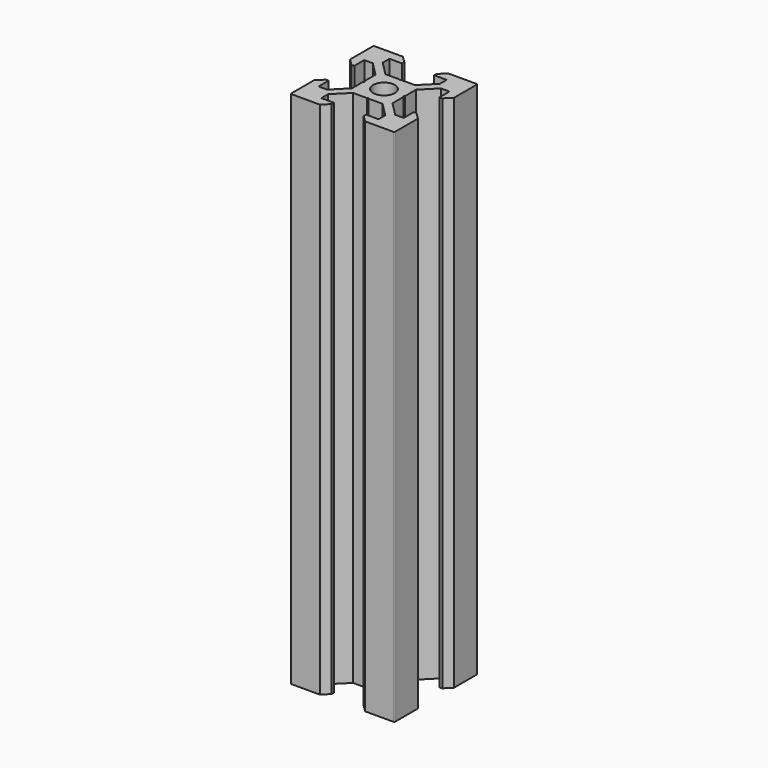
from build123d import *

# Parameters (mm, degrees)
SKETCH_R        = 2.1
PAD_DEPTH       = 100
CHAMFER_1_ANGLE = 45
CHAMFER_1_SIZE  = 1.25
CHAMFER_2_ANGLE = 45
CHAMFER_2_SIZE  = 1.25
CHAMFER_3_ANGLE = 45
CHAMFER_3_SIZE  = 1.25
CHAMFER_4_ANGLE = 45
CHAMFER_4_SIZE  = 1.25
CHAMFER_5_ANGLE = 45
CHAMFER_5_SIZE  = 1.25
CHAMFER_6_ANGLE = 45
CHAMFER_6_SIZE  = 1.25
CHAMFER_7_ANGLE = 45
CHAMFER_7_SIZE  = 1.25
CHAMFER_8_ANGLE = 45
CHAMFER_8_SIZE  = 1.25
FILLET_R        = 0.2


with BuildPart() as part:
    # Sketch → Pad (new body)
    with BuildSketch(Plane.XY):
        Polygon((0, 3.723883), (0.176777, 3.90066), (2.84, 3.90066), (5.49934, 6.56), (5.49934, 8.2), (3.1, 8.2), (3.1, 10), (10, 10), (10, 3.1), (8.2, 3.1), (8.2, 5.49934), (6.56, 5.49934), (3.90066, 2.84), (3.90066, 0.176777), (3.723883, 0), (3.90066, -0.176777), (3.90066, -2.84), (6.56, -5.49934), (8.2, -5.49934), (8.2, -3.1), (10, -3.1), (10, -10), (3.1, -10), (3.1, -8.2), (5.49934, -8.2), (5.49934, -6.56), (2.84, -3.90066), (0.176777, -3.90066), (0, -3.723883), (-0.176777, -3.90066), (-2.84, -3.90066), (-5.49934, -6.56), (-5.49934, -8.2), (-3.1, -8.2), (-3.1, -10), (-10, -10), (-10, -3.1), (-8.2, -3.1), (-8.2, -5.49934), (-6.56, -5.49934), (-3.90066, -2.84), (-3.90066, -0.176777), (-3.723883, 0), (-3.90066, 0.176777), (-3.90066, 2.84), (-6.56, 5.49934), (-8.2, 5.49934), (-8.2, 3.1), (-10, 3.1), (-10, 10), (-3.1, 10), (-3.1, 8.2), (-5.49934, 8.2), (-5.49934, 6.56), (-2.84, 3.90066), (-0.176777, 3.90066), align=None)
        Circle(SKETCH_R, mode=Mode.SUBTRACT)
    extrude(amount=PAD_DEPTH)

    # Chamfer 1
    chamfer_1_edges = [part.edges().sort_by_distance(p)[0] for p in [
        (-3.1, 10, 50),
    ]]
    chamfer_1_side = part.faces().sort_by_distance((-6.55, 10, 50))[0]
    chamfer(chamfer_1_edges, length=CHAMFER_1_SIZE, angle=CHAMFER_1_ANGLE, reference=chamfer_1_side)

    # Chamfer 2
    chamfer_2_edges = [part.edges().sort_by_distance(p)[0] for p in [
        (3.1, 10, 50),
    ]]
    chamfer_2_side = part.faces().sort_by_distance((3.1, 9.1, 50))[0]
    chamfer(chamfer_2_edges, length=CHAMFER_2_SIZE, angle=CHAMFER_2_ANGLE, reference=chamfer_2_side)

    # Chamfer 3
    chamfer_3_edges = [part.edges().sort_by_distance(p)[0] for p in [
        (-10, 3.1, 50),
    ]]
    chamfer_3_side = part.faces().sort_by_distance((-9.1, 3.1, 50))[0]
    chamfer(chamfer_3_edges, length=CHAMFER_3_SIZE, angle=CHAMFER_3_ANGLE, reference=chamfer_3_side)

    # Chamfer 4
    chamfer_4_edges = [part.edges().sort_by_distance(p)[0] for p in [
        (3.1, -10, 50),
    ]]
    chamfer_4_side = part.faces().sort_by_distance((6.55, -10, 50))[0]
    chamfer(chamfer_4_edges, length=CHAMFER_4_SIZE, angle=CHAMFER_4_ANGLE, reference=chamfer_4_side)

    # Chamfer 5
    chamfer_5_edges = [part.edges().sort_by_distance(p)[0] for p in [
        (-3.1, -10, 50),
    ]]
    chamfer_5_side = part.faces().sort_by_distance((-3.1, -9.1, 50))[0]
    chamfer(chamfer_5_edges, length=CHAMFER_5_SIZE, angle=CHAMFER_5_ANGLE, reference=chamfer_5_side)

    # Chamfer 6
    chamfer_6_edges = [part.edges().sort_by_distance(p)[0] for p in [
        (10, 3.1, 50),
    ]]
    chamfer_6_side = part.faces().sort_by_distance((10, 6.55, 50))[0]
    chamfer(chamfer_6_edges, length=CHAMFER_6_SIZE, angle=CHAMFER_6_ANGLE, reference=chamfer_6_side)

    # Chamfer 7
    chamfer_7_edges = [part.edges().sort_by_distance(p)[0] for p in [
        (10, -3.1, 50),
    ]]
    chamfer_7_side = part.faces().sort_by_distance((9.1, -3.1, 50))[0]
    chamfer(chamfer_7_edges, length=CHAMFER_7_SIZE, angle=CHAMFER_7_ANGLE, reference=chamfer_7_side)

    # Chamfer 8
    chamfer_8_edges = [part.edges().sort_by_distance(p)[0] for p in [
        (-10, -3.1, 50),
    ]]
    chamfer_8_side = part.faces().sort_by_distance((-10, -6.55, 50))[0]
    chamfer(chamfer_8_edges, length=CHAMFER_8_SIZE, angle=CHAMFER_8_ANGLE, reference=chamfer_8_side)

    # Fillet
    fillet_edges = [part.edges().sort_by_distance(p)[0] for p in [
        (10, 10, 50),
        (-10, 10, 50),
        (-10, -10, 50),
        (10, -10, 50),
    ]]
    fillet(fillet_edges, radius=FILLET_R)


solid = part.part
